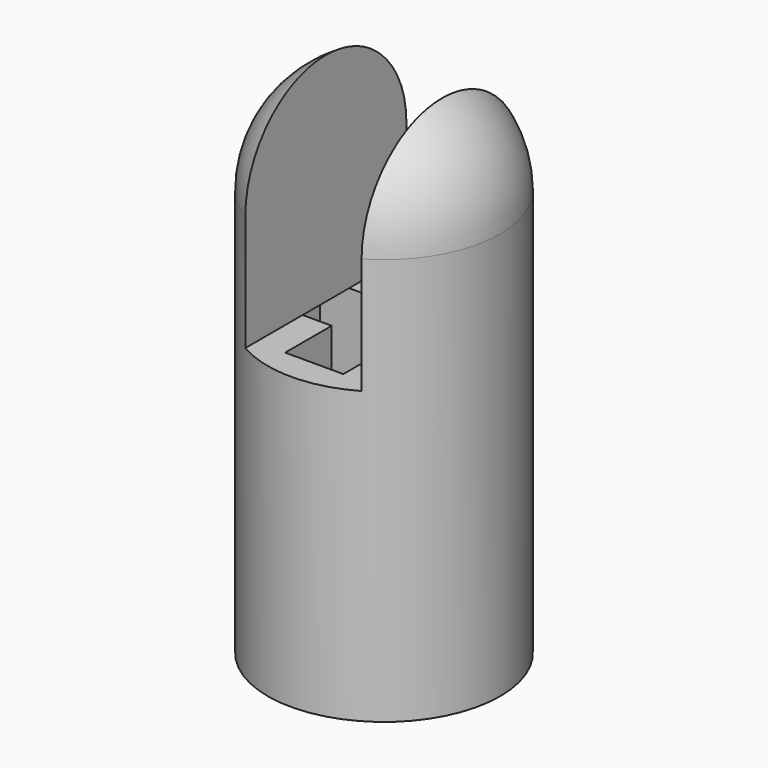
from build123d import *

# Parameters (mm, degrees)
F0_R     = 3.175
F1_DEPTH = 14.2875
F2_R     = 3.175
F4_DEPTH = 12.7
F5_W     = 1.5875
F5_H     = 1.5875
F6_DEPTH = 7.9375


with BuildPart() as f1:
    # F0 (on Top) → F1 (new body)
    with BuildSketch(Plane.XY):
        Circle(F0_R)
    extrude(amount=F1_DEPTH)

    # F2
    f2_edges = [f1.edges().sort_by_distance(p)[0] for p in [
        (-3.175, 0, 14.2875),
    ]]
    fillet(f2_edges, radius=F2_R)

    # F3 (on Front) → F4 (cut, symmetric)
    with BuildSketch(Plane.XZ):
        Polygon((-1.5875, 7.9375), (0, 7.9375), (1.5875, 7.9375), (1.5875, 14.9094229564), (-1.5875, 14.9094229564), align=None)
    extrude(amount=F4_DEPTH, both=True, mode=Mode.SUBTRACT)

    # F5 (on face) → F6 (cut)
    with BuildSketch(Plane(origin=(0, 0, 0), x_dir=(1, 0, 0), z_dir=(0, 0, -1))):
        with Locations((-1.5875, 0)):
            Rectangle(F5_W, F5_H)
        with Locations((0, 1.5875)):
            Rectangle(F5_W, F5_H)
        Rectangle(F5_W, F5_H)
        with Locations((1.5875, 0)):
            Rectangle(F5_W, F5_H)
        with Locations((0, -1.5875)):
            Rectangle(F5_W, F5_H)
    extrude(amount=-F6_DEPTH, mode=Mode.SUBTRACT)


solid = f1.part
